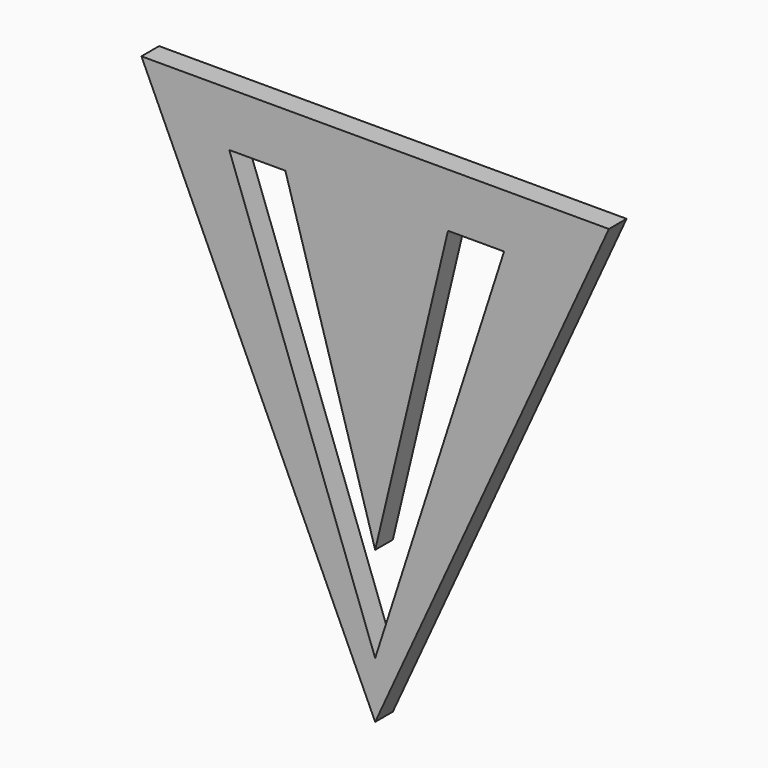
from build123d import *

# Parameters (mm, degrees)
F1_DEPTH = 3


with BuildPart() as f1:
    # F0 (on Front) → F1 (new body)
    with BuildSketch(Plane.XZ):
        Polygon((31.75, 29.663763), (-31.75, 29.663763), (0, -39.606559), align=None)
        Polygon((0, -31.979957), (-19.818102, 22.340003), (-12.198102, 22.340003), (0, -19.036009), (9.889786, 22.340003), (17.509786, 22.340003), align=None, mode=Mode.SUBTRACT)
    extrude(amount=F1_DEPTH)


solid = f1.part
